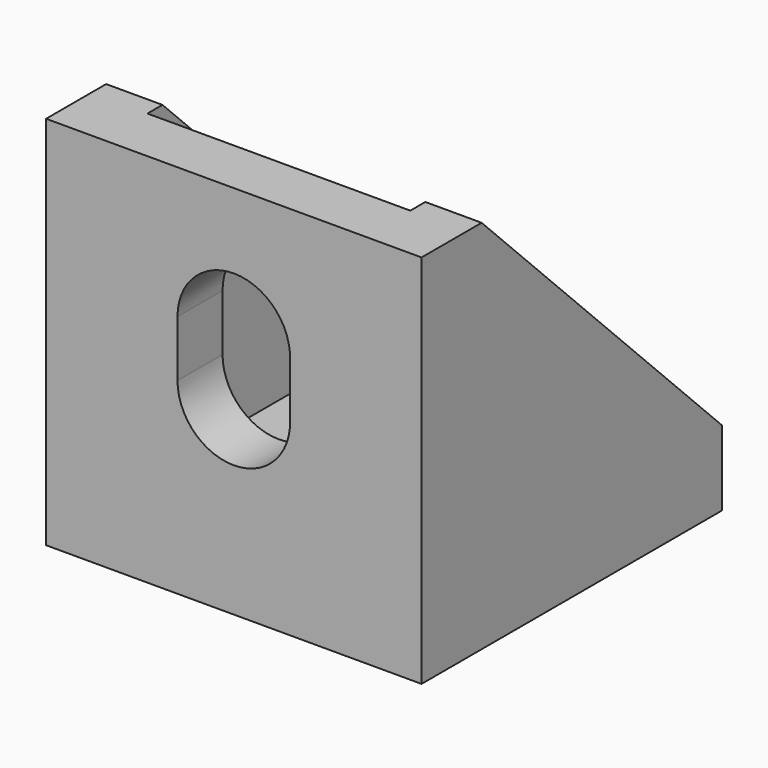
from build123d import *

# Parameters (mm, degrees)
PAD102_DEPTH            = 20
THICKNESS001_T          = -3
POCKET077_DEPTH         = 5
POCKET078_DEPTH         = 5
BODY127_PLACEMENT_ANGLE = 90


with BuildPart() as part:
    # Sketch211 (on XZ_Plane1033 of Origin1405) → Pad102 (new body)
    with BuildSketch(Plane.XZ):
        Polygon((0, 0), (0, 20), (4, 20), (20, 4), (20, 0), align=None)
    extrude(amount=PAD102_DEPTH)

    # Thickness001
    thickness001_openings = [part.faces().sort_by_distance(p)[0] for p in [
        (2, -10, 20),
        (12, -10, 12),
        (20, -10, 2),
    ]]
    offset(amount=THICKNESS001_T, openings=thickness001_openings)

    # Sketch212 (on Face11 of Thickness001) → Pocket077 (cut)
    with BuildSketch(Plane.YZ.offset(3)):
        with BuildLine():
            ThreePointArc((-7, 13), (-10, 16), (-13, 13))
            Line((-13, 13), (-13, 10))
            ThreePointArc((-13, 10), (-10, 7), (-7, 10))
            Line((-7, 13), (-7, 10))
        make_face()
    extrude(amount=-POCKET077_DEPTH, mode=Mode.SUBTRACT)

    # Sketch213 (on Face16 of Pocket077) → Pocket078 (cut)
    with BuildSketch(Plane.XY.offset(3)):
        with BuildLine():
            ThreePointArc((10, -7), (7, -10), (10, -13))
            Line((10, -13), (13, -13))
            ThreePointArc((13, -13), (16, -10), (13, -7))
            Line((10, -7), (13, -7))
        make_face()
    extrude(amount=-POCKET078_DEPTH, mode=Mode.SUBTRACT)


with BuildPart() as part_1:
    # Body127 placement: moved
    add(part.part.moved(Location((-160, 270, -33))).rotate(Axis((-160, 270, -33), (0, 0, 1)), BODY127_PLACEMENT_ANGLE))


solid = part_1.part
